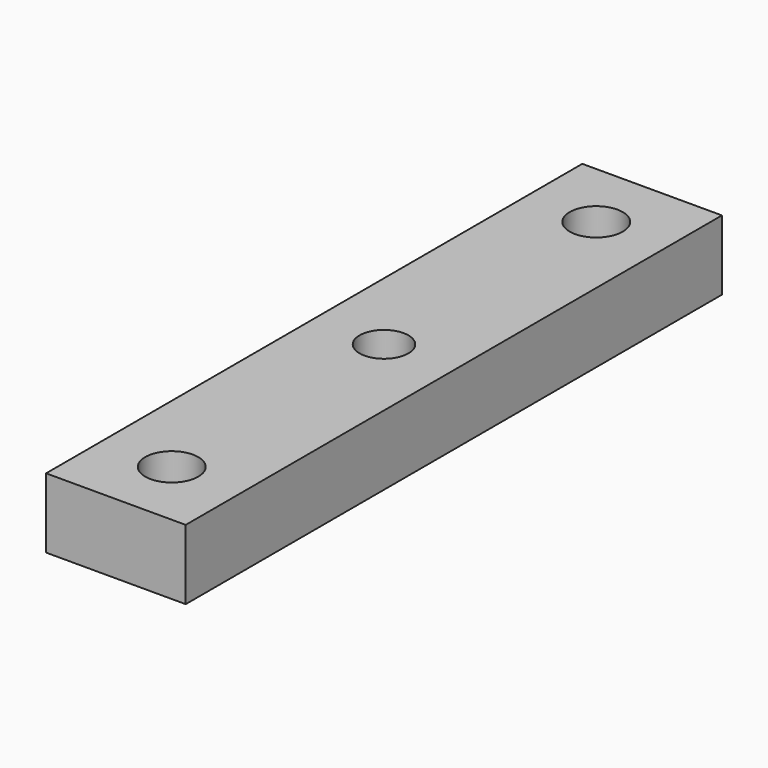
from build123d import *

# Parameters (mm, degrees)
CYLINDER066_R          = 1.9
CYLINDER066_DEPTH      = 10
CYLINDER067_R          = 1.9
CYLINDER067_DEPTH      = 10
CYLINDER065_R          = 1.75
CYLINDER065_DEPTH      = 10
BOX014_W               = 10
BOX014_H               = 5
BOX014_DEPTH           = 48
CUT005_PLACEMENT_ANGLE = 90


with BuildPart() as cylinder066:
    # Cylinder066 → Cylinder066 (new body)
    with BuildSketch(Plane(origin=(-115, 0, -50), x_dir=(1, 0, 0), z_dir=(0, -1, 0))):
        Circle(CYLINDER066_R)
    extrude(amount=CYLINDER066_DEPTH)


with BuildPart() as cylinder067:
    # Cylinder067 → Cylinder067 (new body)
    with BuildSketch(Plane(origin=(-115, 0, -12), x_dir=(1, 0, 0), z_dir=(0, -1, 0))):
        Circle(CYLINDER067_R)
    extrude(amount=CYLINDER067_DEPTH)


with BuildPart() as sidecuts001:
    # Cylinder065 → Cylinder065 (new body)
    with BuildSketch(Plane(origin=(-115, 0, -31), x_dir=(1, 0, 0), z_dir=(0, -1, 0))):
        Circle(CYLINDER065_R)
    extrude(amount=CYLINDER065_DEPTH)

    # Fusion024: union Cylinder066, Cylinder067
    add(cylinder066.part)
    add(cylinder067.part)


with BuildPart() as sidecuts001_1:
    # Fusion024 placement: moved
    add(sidecuts001.part.moved(Location((0, 9.8, 0))))


with BuildPart() as cornerbase001:
    # Box014 → Box014 (new body)
    with BuildSketch(Plane(origin=(-120, 0, -55), x_dir=(1, 0, 0), z_dir=(0, 0, 1))):
        with Locations((5, 2.5)):
            Rectangle(BOX014_W, BOX014_H)
    extrude(amount=BOX014_DEPTH)

    # Cut005: cut sideCuts001
    add(sidecuts001_1.part, mode=Mode.SUBTRACT)


with BuildPart() as cornerbase001_1:
    # Cut005 placement: moved
    add(cornerbase001.part.rotate(Axis((0, 0, 0), (-1, 0, 0)), CUT005_PLACEMENT_ANGLE))


solid = cornerbase001_1.part
